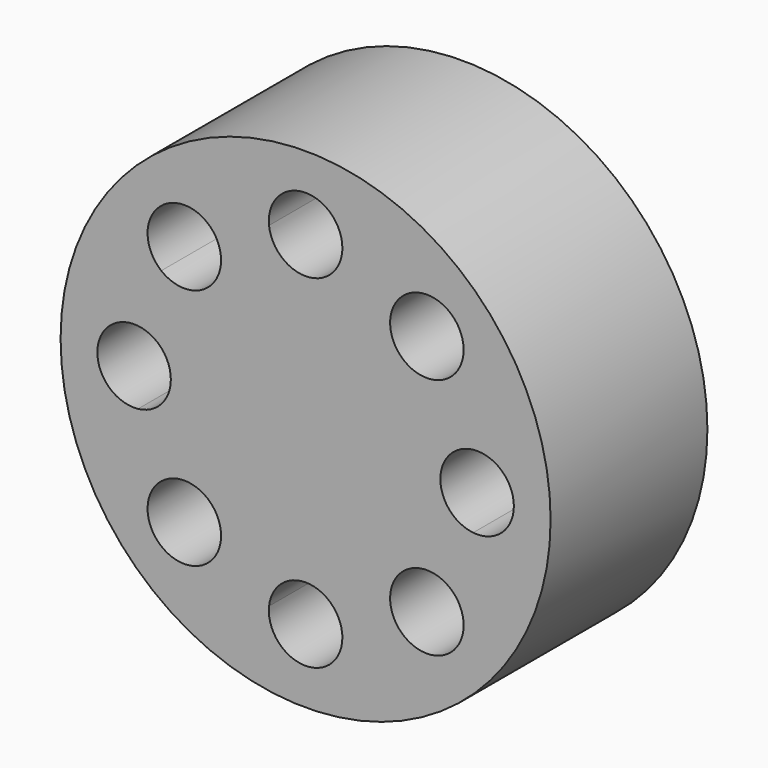
from build123d import *

# Parameters (mm, degrees)
F0_R     = 31.75
F1_DEPTH = 25.4


with BuildPart() as f1:
    # F0 (on Front) → F1 (new body)
    with BuildSketch(Plane.XZ):
        Circle(F0_R)
        with BuildLine():
            ThreePointArc((18.7028452874, 12.0064234124), (20.5332226101, 8.5051392843), (21.7147321429, 4.7350853175))
            ThreePointArc((21.7147321429, 4.7350853175), (25.4070791615, 3.543413391), (26.9875, 0))
            ThreePointArc((26.9875, 0), (25.4070791615, -3.543413391), (21.7147321429, -4.7350853175))
            ThreePointArc((21.7147321429, -4.7350853175), (20.5332226101, -8.5051392843), (18.7028452874, -12.0064234124))
            ThreePointArc((18.7028452874, -12.0064234124), (20.0113116188, -13.6594900802), (20.4779482119, -15.7154482119))
            ThreePointArc((20.4779482119, -15.7154482119), (17.2993004213, -20.2068642947), (12.0064234124, -18.7028452874))
            ThreePointArc((12.0064234124, -18.7028452874), (8.5051392843, -20.5332226101), (4.7350853175, -21.7147321429))
            ThreePointArc((4.7350853175, -21.7147321429), (4.7556413907, -21.969498116), (4.7625, -22.225))
            ThreePointArc((4.7625, -22.225), (-0.255501884, -26.9806413907), (-4.7350853175, -21.7147321429))
            ThreePointArc((-4.7350853175, -21.7147321429), (-8.5051392843, -20.5332226101), (-12.0064234124, -18.7028452874))
            ThreePointArc((-12.0064234124, -18.7028452874), (-19.0830442573, -19.0830442573), (-18.7028452874, -12.0064234124))
            ThreePointArc((-18.7028452874, -12.0064234124), (-20.5332226101, -8.5051392843), (-21.7147321429, -4.7350853175))
            ThreePointArc((-21.7147321429, -4.7350853175), (-26.9875, 0), (-21.7147321429, 4.7350853175))
            ThreePointArc((-21.7147321429, 4.7350853175), (-20.5332226101, 8.5051392843), (-18.7028452874, 12.0064234124))
            ThreePointArc((-18.7028452874, 12.0064234124), (-19.0830442573, 19.0830442573), (-12.0064234124, 18.7028452874))
            ThreePointArc((-12.0064234124, 18.7028452874), (-8.5051392843, 20.5332226101), (-4.7350853175, 21.7147321429))
            ThreePointArc((-4.7350853175, 21.7147321429), (-0.255501884, 26.9806413907), (4.7625, 22.225))
            ThreePointArc((4.7625, 22.225), (4.7556413907, 21.969498116), (4.7350853175, 21.7147321429))
            ThreePointArc((4.7350853175, 21.7147321429), (8.5051392843, 20.5332226101), (12.0064234124, 18.7028452874))
            ThreePointArc((12.0064234124, 18.7028452874), (17.2993004213, 20.2068642947), (20.4779482119, 15.7154482119))
            ThreePointArc((20.4779482119, 15.7154482119), (20.0113116188, 13.6594900802), (18.7028452874, 12.0064234124))
        make_face(mode=Mode.SUBTRACT)
        with BuildLine():
            ThreePointArc((21.7147321429, -4.7350853175), (17.4625, 0), (21.7147321429, 4.7350853175))
            ThreePointArc((21.7147321429, 4.7350853175), (20.5332226101, 8.5051392843), (18.7028452874, 12.0064234124))
            ThreePointArc((18.7028452874, 12.0064234124), (12.3478521665, 12.3478521665), (12.0064234124, 18.7028452874))
            ThreePointArc((12.0064234124, 18.7028452874), (8.5051392843, 20.5332226101), (4.7350853175, 21.7147321429))
            ThreePointArc((4.7350853175, 21.7147321429), (0, 17.4625), (-4.7350853175, 21.7147321429))
            ThreePointArc((-4.7350853175, 21.7147321429), (-8.5051392843, 20.5332226101), (-12.0064234124, 18.7028452874))
            ThreePointArc((-12.0064234124, 18.7028452874), (-11.2240321291, 17.2993004213), (-10.9529482119, 15.7154482119))
            ThreePointArc((-10.9529482119, 15.7154482119), (-13.6594900802, 11.4195848049), (-18.7028452874, 12.0064234124))
            ThreePointArc((-18.7028452874, 12.0064234124), (-20.5332226101, 8.5051392843), (-21.7147321429, 4.7350853175))
            ThreePointArc((-21.7147321429, 4.7350853175), (-18.681586609, 3.1820791615), (-17.4625, 0))
            ThreePointArc((-17.4625, 0), (-18.681586609, -3.1820791615), (-21.7147321429, -4.7350853175))
            ThreePointArc((-21.7147321429, -4.7350853175), (-20.5332226101, -8.5051392843), (-18.7028452874, -12.0064234124))
            ThreePointArc((-18.7028452874, -12.0064234124), (-13.6594900802, -11.4195848049), (-10.9529482119, -15.7154482119))
            ThreePointArc((-10.9529482119, -15.7154482119), (-11.2240321291, -17.2993004213), (-12.0064234124, -18.7028452874))
            ThreePointArc((-12.0064234124, -18.7028452874), (-8.5051392843, -20.5332226101), (-4.7350853175, -21.7147321429))
            ThreePointArc((-4.7350853175, -21.7147321429), (0, -17.4625), (4.7350853175, -21.7147321429))
            ThreePointArc((4.7350853175, -21.7147321429), (8.5051392843, -20.5332226101), (12.0064234124, -18.7028452874))
            ThreePointArc((12.0064234124, -18.7028452874), (12.3478521665, -12.3478521665), (18.7028452874, -12.0064234124))
            ThreePointArc((18.7028452874, -12.0064234124), (20.5332226101, -8.5051392843), (21.7147321429, -4.7350853175))
        make_face()
    extrude(amount=F1_DEPTH)


solid = f1.part
